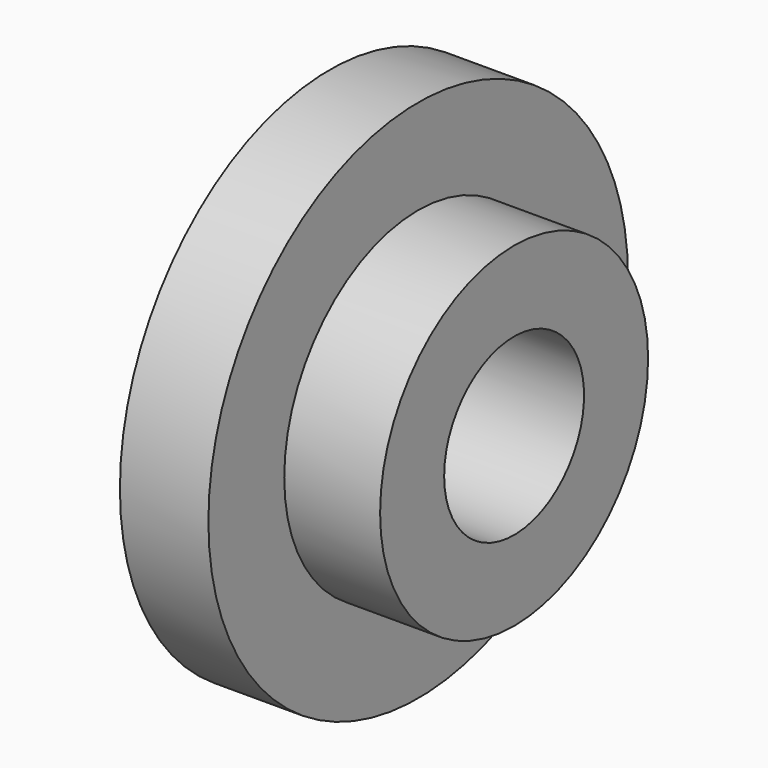
from build123d import *

# Parameters (mm, degrees)
F0_W   = 16.5537931025
F0_H   = 17.7362076938
F0_W_2 = 17.9332755506
F0_H_2 = 14.9772390723


with BuildPart() as f1:
    # F0 (on Top) → F1 (revolve)
    with BuildSketch(Plane.XY):
        with Locations((8.2768965513, -40.2020681649)):
            Rectangle(F0_W, F0_H)
        with Locations((25.5204308778, -23.8453447819)):
            Rectangle(F0_W_2, F0_H_2)
        with Locations((8.2768965513, -23.8453447819)):
            Rectangle(F0_W, F0_H_2)
    revolve(axis=Axis((15.8640518785, 0, 0), (1, 0, 0)))


solid = f1.part
